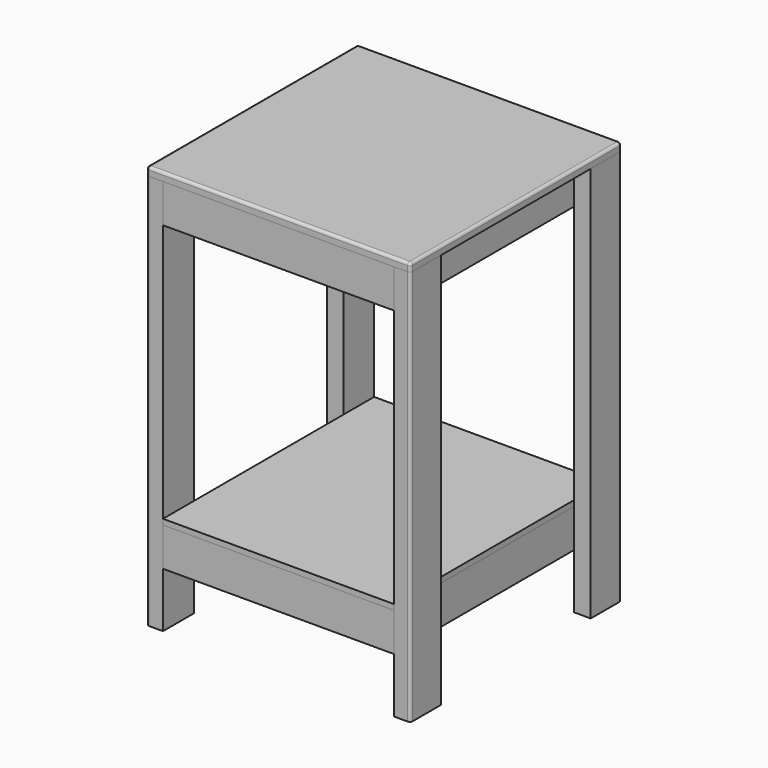
from build123d import *

# Parameters (mm, degrees)
F0_W      = 38.1
F0_H      = 88.9
F1_DEPTH  = 914.4
F2_W      = 38.1
F2_H      = 88.9
F3_DEPTH  = 533.4
F2_W_2    = 482.6
F2_W_3    = 50.8
F4_DEPTH  = 38.1
F5_W      = 482.6
F5_H      = 88.9
F5_W_2    = 50.8
F6_DEPTH  = 38.1
F7_W      = 38.1
F7_H      = 88.9
F8_DEPTH  = 19.05
F9_W      = 38.1
F9_H      = 533.4
F10_DEPTH = 12.7
F11_R     = 6.35
F12_R     = 6.35


with BuildPart() as f1:
    # F0 (on Top) → F1 (new body)
    with BuildSketch(Plane.XY):
        with Locations((590.55, -44.45)):
            Rectangle(F0_W, F0_H)
        with Locations((19.05, -44.45)):
            Rectangle(F0_W, F0_H)
        with Locations((590.55, -565.15)):
            Rectangle(F0_W, F0_H)
        with Locations((19.05, -565.15)):
            Rectangle(F0_W, F0_H)
    extrude(amount=F1_DEPTH)

    # F12
    f12_edges = [f1.edges().sort_by_distance(p)[0] for p in [
        (0, -609.6, 457.2),
        (609.6, -609.6, 457.2),
        (609.6, 0, 457.2),
        (0, 0, 457.2),
    ]]
    fillet(f12_edges, radius=F12_R)


with BuildPart() as f3:
    # F2 (on face) → F3 (new body, through all)
    with BuildSketch(Plane.YZ.offset(38.1)):
        with Locations((-590.55, 869.95)):
            Rectangle(F2_W, F2_H)
        with Locations((-19.05, 171.45)):
            Rectangle(F2_W, F2_H)
        with Locations((-19.05, 869.95)):
            Rectangle(F2_W, F2_H)
        with Locations((-590.55, 171.45)):
            Rectangle(F2_W, F2_H)
    extrude(amount=F3_DEPTH)


with BuildPart() as f4:
    # F2 (on face) → F4 (new body)
    with BuildSketch(Plane.YZ.offset(38.1)):
        with Locations((-279.4, 869.95)):
            Rectangle(F2_W_2, F2_H)
        with Locations((-279.4, 171.45)):
            Rectangle(F2_W_2, F2_H)
        with Locations((-546.1, 171.45)):
            Rectangle(F2_W_3, F2_H)
        with Locations((-546.1, 869.95)):
            Rectangle(F2_W_3, F2_H)
    extrude(amount=F4_DEPTH)


with BuildPart() as f6:
    # F5 (on face) → F6 (new body)
    with BuildSketch(Plane(origin=(571.5, 0, 0), x_dir=(0, -1, 0), z_dir=(-1, 0, 0))):
        with Locations((330.2, 171.45)):
            Rectangle(F5_W, F5_H)
        with Locations((330.2, 869.95)):
            Rectangle(F5_W, F5_H)
        with Locations((63.5, 869.95)):
            Rectangle(F5_W_2, F5_H)
        with Locations((63.5, 171.45)):
            Rectangle(F5_W_2, F5_H)
    extrude(amount=F6_DEPTH)


with BuildPart() as f8:
    # F7 (on face) → F8 (new body)
    with BuildSketch(Plane.XY.offset(914.4)):
        with Locations((590.55, -44.45)):
            Rectangle(F7_W, F7_H)
        Polygon((571.5, -88.9), (571.5, 0), (0, 0), (0, -609.6), (609.6, -609.6), (609.6, -88.9), align=None)
    extrude(amount=F8_DEPTH)

    # F11
    f11_edges = [f8.edges().sort_by_distance(p)[0] for p in [
        (304.8, 0, 933.45),
        (609.6, -304.8, 933.45),
        (304.8, -609.6, 933.45),
        (609.6, 0, 923.925),
        (609.6, -609.6, 923.925),
        (0, -609.6, 923.925),
        (0, -304.8, 933.45),
        (0, 0, 923.925),
    ]]
    fillet(f11_edges, radius=F11_R)


with BuildPart() as f10:
    # F9 (on face) → F10 (new body)
    with BuildSketch(Plane.XY.offset(215.9)):
        Polygon((571.5, -38.1), (571.5, 0), (38.1, 0), (38.1, -609.6), (571.5, -609.6), (571.5, -571.5), (533.4, -571.5), (533.4, -38.1), align=None)
        with Locations((552.45, -304.8)):
            Rectangle(F9_W, F9_H)
    extrude(amount=F10_DEPTH)


solid = Compound([f1.part, f3.part, f4.part, f6.part, f8.part, f10.part])
